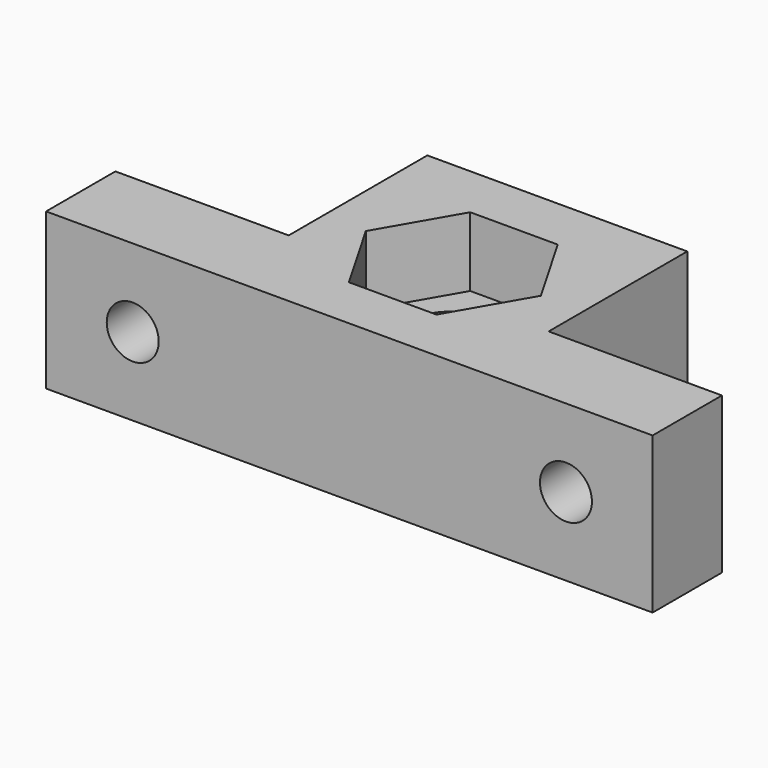
from build123d import *

# Parameters (mm, degrees)
F0_R     = 6
F1_DEPTH = 18
F2_R     = 6
F3_DEPTH = 8
F4_R     = 3
F5_DEPTH = 25


with BuildPart() as f1:
    # F0 (on Top) → F1 (new body)
    with BuildSketch(Plane.XY):
        Polygon((0, 10), (0, 0), (70, 0), (70, 10), (50, 10), (50, 30), (20, 30), (20, 10), align=None)
        with Locations((35, 15)):
            Circle(F0_R, mode=Mode.SUBTRACT)
    extrude(amount=F1_DEPTH)

    # F2 (on face) → F3 (cut)
    with BuildSketch(Plane.XY.offset(18)):
        Polygon((40.051815, 23.75), (29.948185, 23.75), (24.89637, 15), (29.948185, 6.25), (40.051815, 6.25), (45.10363, 15), align=None)
        with Locations((35, 15)):
            Circle(F2_R, mode=Mode.SUBTRACT)
    extrude(amount=-F3_DEPTH, mode=Mode.SUBTRACT)

    # F4 (on face) → F5 (cut)
    with BuildSketch(Plane(origin=(0, 10, 0), x_dir=(-1, 0, 0), z_dir=(0, 1, 0))):
        with Locations((-60, 9)):
            Circle(F4_R)
        with Locations((-10, 9)):
            Circle(F4_R)
    extrude(amount=-F5_DEPTH, mode=Mode.SUBTRACT)


solid = f1.part
